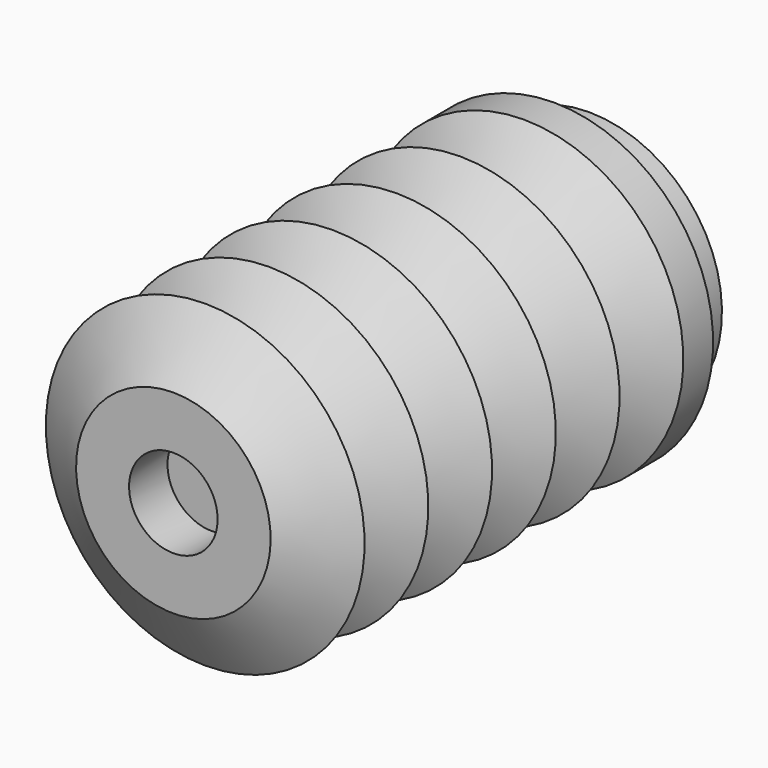
from build123d import *


with BuildPart() as f1:
    # F0 (on Right) → F1 (revolve)
    with BuildSketch(Plane.YZ):
        Polygon((-32.793459, 0), (20.486485, 0), (20.486485, 15), (15.486485, 15), (15.486485, 18), (11.280604, 18), (6.780604, 10.988123), (2.280604, 18), (-2.219396, 10.988123), (-6.719396, 18), (-11.219396, 10.988123), (-15.719396, 18), (-20.219396, 10.988123), (-24.719396, 18), (-29.219396, 10.988123), (-33.719396, 18), (-38.219396, 10.988123), (-38.219396, 5), (-32.793459, 5), align=None)
    revolve(axis=Axis((0, -6.153487, 0), (0, 1, 0)))


solid = f1.part
